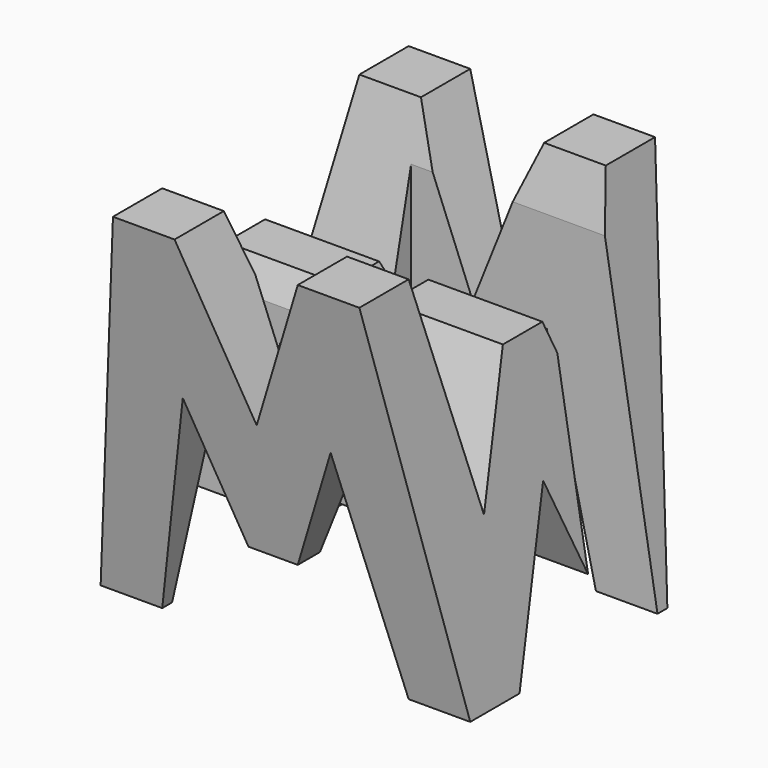
from build123d import *

# Parameters (mm, degrees)
F0_W      = 38.1
F0_H      = 38.1
F1_DEPTH  = 38.1
F6_DEPTH  = 38.1
F8_DEPTH  = 38.1
F9_W      = 25.4
F9_H      = 7.62
F10_DEPTH = 38.1


with BuildPart() as f1:
    # F0 (on Front) → F1 (new body)
    with BuildSketch(Plane.XZ):
        with Locations((19.05, 19.05)):
            Rectangle(F0_W, F0_H)
    extrude(amount=F1_DEPTH)

    # F5 (on offset) → F6 (cut)
    with BuildSketch(Plane.YZ.offset(38.1)):
        Polygon((-31.75, 0), (-38.1, 38.1), (-38.1, 0), align=None)
        Polygon((-19.05, 0), (-12.7, 0), (-19.05, 15.875), (-25.4, 0), align=None)
        Polygon((-6.35, 0), (0, 0), (0, 38.1), align=None)
        Polygon((-11.43, 15.875), (-6.35, 38.1), (-31.75, 38.1), (-26.67, 15.875), (-21.59, 28.575), (-16.51, 28.575), align=None)
    extrude(amount=-F6_DEPTH, mode=Mode.SUBTRACT)

    # F7 (on offset) → F8 (cut)
    with BuildSketch(Plane.XZ.offset(38.1)):
        Polygon((25.4, 38.1), (12.7, 38.1), (19.05, 22.225), align=None)
        Polygon((11.43, 22.225), (6.35, 0), (31.75, 0), (26.67, 22.225), (21.59, 9.525), (16.51, 9.525), align=None)
        Polygon((31.75, 38.1), (38.1, 0), (38.1, 38.1), align=None)
        Polygon((0, 38.1), (0, 0), (6.35, 38.1), align=None)
    extrude(amount=-F8_DEPTH, mode=Mode.SUBTRACT)

    # F9 (on offset) → F10 (cut)
    with BuildSketch(Plane.XY.offset(38.1)):
        with Locations((12.7, -26.67)):
            Rectangle(F9_W, F9_H)
        with Locations((25.4, -11.43)):
            Rectangle(F9_W, F9_H)
    extrude(amount=-F10_DEPTH, mode=Mode.SUBTRACT)


solid = f1.part
